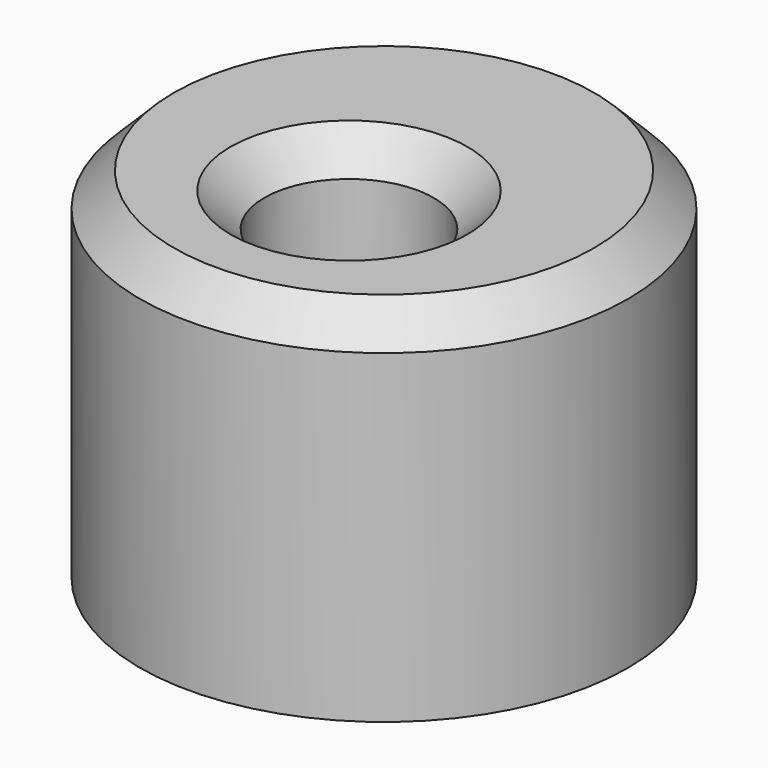
from build123d import *

# Parameters (mm, degrees)
F0_R     = 72.0614296005
F1_DEPTH = 105.8891117573
F3_D     = 50
F4_SIZE  = 10
F5_W     = 59.8151311278
F5_H     = 55.4952472448
F6_DEPTH = 78.7402912974


with BuildPart() as f1:
    # F0 (on Top) → F1 (new body)
    with BuildSketch(Plane.XY):
        Circle(F0_R)
    extrude(amount=F1_DEPTH)

    # F3 (through all)
    with Locations(Plane.XY.offset(105.8891117573)):
        with Locations((0, -12.928519398)):
            Hole(F3_D / 2)

    # F4
    f4_edges = [f1.edges().sort_by_distance(p)[0] for p in [
        (-72.06143, 0, 105.889112),
        (-25, -12.928519, 105.889112),
    ]]
    chamfer(f4_edges, length=F4_SIZE)

    # F5 (on Right) → F6 (join)
    with BuildSketch(Plane.YZ):
        with Locations((29.9075655639, 35.4334488511)):
            Rectangle(F5_W, F5_H)
    extrude(amount=-F6_DEPTH)


solid = f1.part
